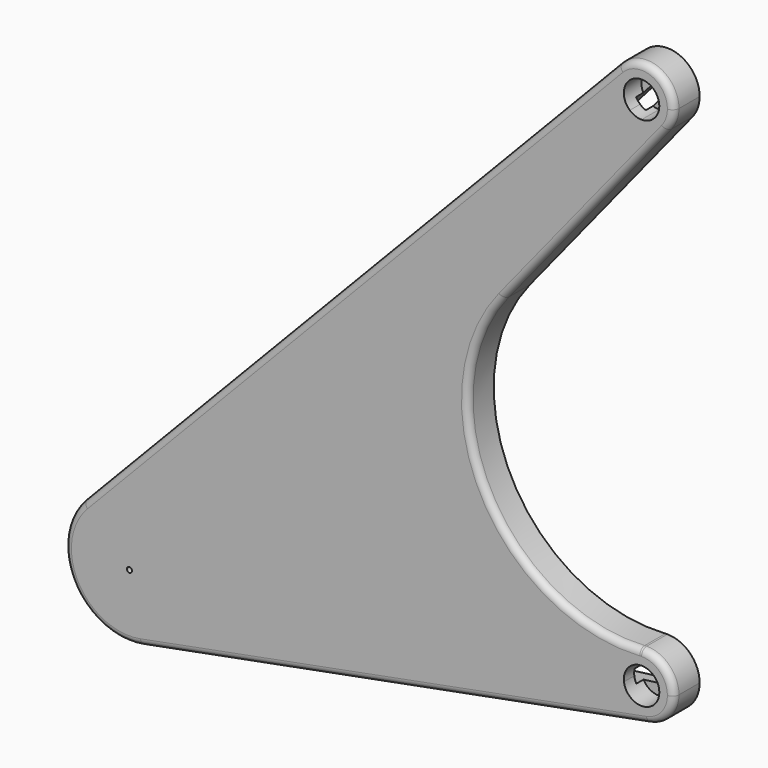
from build123d import *

# Parameters (mm, degrees)
F1_DEPTH = 25
F2_DEPTH = 8
F3_DEPTH = 25
F4_DEPTH = 15
F6_DEPTH = 15
F7_D     = 4
F8_R     = 5


with BuildPart() as f1:
    # F0 (on Front) → F1 (new body)
    with BuildSketch(Plane.XZ):
        with BuildLine():
            Line((-349.5359115523, -100.9652705431), (-336.307154997, -85.9652705431))
            ThreePointArc((-336.307154997, -85.9652705431), (-353.178144257, -76.1627254717), (-372.5163375921, -73.5637935721))
            ThreePointArc((-372.5163375921, -73.5637935721), (-390.430756518, -78.1130324452), (-405.4684846867, -88.8595998648))
            ThreePointArc((-405.4684846867, -88.8595998648), (-413.3268873379, -147.310338704), (-360.0407755432, -172.5854975141))
            ThreePointArc((-360.0407755432, -172.5854975141), (-343.7235260202, -166.3814012494), (-330.5336171349, -154.9459412214))
            ThreePointArc((-330.5336171349, -154.9459412214), (-322.250119692, -140.1645001283), (-319.3790463853, -123.4652705431))
            ThreePointArc((-319.3790463853, -123.4652705431), (-319.4771834235, -120.3341249159), (-319.7712093028, -117.2152705431))
            Line((-319.7712093028, -117.2152705431), (-339.6143441358, -119.7152705431))
            ThreePointArc((-339.6143441358, -119.7152705431), (-339.4379286082, -121.5865831668), (-339.3790463853, -123.4652705431))
            ThreePointArc((-339.3790463853, -123.4652705431), (-396.7221812183, -135.8084053761), (-349.5359115523, -100.9652705431))
        make_face()
        with BuildLine():
            ThreePointArc((-319.7712093028, -117.2152705431), (-325.1848725611, -100.0799118758), (-336.307154997, -85.9652705431))
            Line((-336.307154997, -85.9652705431), (-349.5359115523, -100.9652705431))
            ThreePointArc((-349.5359115523, -100.9652705431), (-342.8625420908, -109.4340553427), (-339.6143441358, -119.7152705431))
            Line((-339.6143441358, -119.7152705431), (-319.7712093028, -117.2152705431))
        make_face()
        with BuildLine():
            Line((-336.307154997, -85.9652705431), (-322.6025679954, -70.4257295315))
            Line((-322.6025679954, -70.4257295315), (-372.5163375921, -73.5637935721))
            ThreePointArc((-372.5163375921, -73.5637935721), (-353.178144257, -76.1627254717), (-336.307154997, -85.9652705431))
        make_face()
        with BuildLine():
            Line((-322.6025679954, -70.4257295315), (10.9477045802, 307.7847294569))
            ThreePointArc((10.9477045802, 307.7847294569), (2.5055132487, 325.4894205434), (9.4389311237, 343.837564796))
            Line((9.4389311237, 343.837564796), (-405.4684846867, -88.8595998648))
            ThreePointArc((-405.4684846867, -88.8595998648), (-390.430756518, -78.1130324452), (-372.5163375921, -73.5637935721))
            Line((-372.5163375921, -73.5637935721), (-322.6025679954, -70.4257295315))
        make_face()
        with BuildLine():
            ThreePointArc((27.4836502744, 301.5347294569), (18.6448155096, 303.1493707896), (10.9477045802, 307.7847294569))
            Line((10.9477045802, 307.7847294569), (-322.6025679954, -70.4257295315))
            Line((-322.6025679954, -70.4257295315), (-258.7862584205, -66.4136168841))
            Line((-258.7862584205, -66.4136168841), (-79.1806184856, 155.209939055))
            Line((-79.1806184856, 155.209939055), (27.4836502744, 286.8278244556))
            Line((27.4836502744, 286.8278244556), (27.4836502744, 301.5347294569))
        make_face()
        with BuildLine():
            Line((-258.7862584205, -66.4136168841), (-322.6025679954, -70.4257295315))
            Line((-322.6025679954, -70.4257295315), (-336.307154997, -85.9652705431))
            ThreePointArc((-336.307154997, -85.9652705431), (-325.1848725611, -100.0799118758), (-319.7712093028, -117.2152705431))
            Line((-319.7712093028, -117.2152705431), (-297.7031676779, -114.4349586354))
            Line((-297.7031676779, -114.4349586354), (-258.7862584205, -66.4136168841))
        make_face()
        with BuildLine():
            Line((-79.1806184856, 155.209939055), (-258.7862584205, -66.4136168841))
            Line((-258.7862584205, -66.4136168841), (25.915004671, -48.5145320576))
            ThreePointArc((25.915004671, -48.5145320576), (-93.174775765, 19.0206064889), (-79.1806184856, 155.209939055))
        make_face()
        with BuildLine():
            Line((13.8414950767, -75.1840205431), (2.6797317332, -76.5902705431))
            ThreePointArc((2.6797317332, -76.5902705431), (12.7792837339, -93.6836187606), (32.1527856955, -98.0253840286))
            ThreePointArc((32.1527856955, -98.0253840286), (46.7414848558, -89.4069080762), (52.4836502744, -73.4652705431))
            ThreePointArc((52.4836502744, -73.4652705431), (45.1613198041, -55.7876010134), (27.4836502744, -48.4652705431))
            Line((27.4836502744, -48.4652705431), (27.4836502744, -59.7152705431))
            ThreePointArc((27.4836502744, -59.7152705431), (37.2063685157, -63.7425523018), (41.2336502744, -73.4652705431))
            ThreePointArc((41.2336502744, -73.4652705431), (28.3447153219, -87.1882828576), (13.8414950767, -75.1840205431))
        make_face()
        with BuildLine():
            Line((2.6797317332, -76.5902705431), (-297.7031676779, -114.4349586354))
            Line((-297.7031676779, -114.4349586354), (-330.5336171349, -154.9459412214))
            ThreePointArc((-330.5336171349, -154.9459412214), (-343.7235260202, -166.3814012494), (-360.0407755432, -172.5854975141))
            Line((-360.0407755432, -172.5854975141), (32.1527856955, -98.0253840286))
            ThreePointArc((32.1527856955, -98.0253840286), (12.7792837339, -93.6836187606), (2.6797317332, -76.5902705431))
        make_face()
        with BuildLine():
            ThreePointArc((27.4836502744, -48.4652705431), (26.6989408177, -48.4775889566), (25.915004671, -48.5145320576))
            ThreePointArc((25.915004671, -48.5145320576), (8.223852566, -57.5260048062), (2.6797317332, -76.5902705431))
            Line((2.6797317332, -76.5902705431), (13.8414950767, -75.1840205431))
            ThreePointArc((13.8414950767, -75.1840205431), (17.1711502744, -64.3705004113), (27.4836502744, -59.7152705431))
            Line((27.4836502744, -59.7152705431), (27.4836502744, -48.4652705431))
        make_face()
        with BuildLine():
            Line((25.915004671, -48.5145320576), (-258.7862584205, -66.4136168841))
            Line((-258.7862584205, -66.4136168841), (-297.7031676779, -114.4349586354))
            Line((-297.7031676779, -114.4349586354), (2.6797317332, -76.5902705431))
            ThreePointArc((2.6797317332, -76.5902705431), (8.223852566, -57.5260048062), (25.915004671, -48.5145320576))
        make_face()
        with BuildLine():
            Line((-297.7031676779, -114.4349586354), (-319.7712093028, -117.2152705431))
            ThreePointArc((-319.7712093028, -117.2152705431), (-319.4771834235, -120.3341249159), (-319.3790463853, -123.4652705431))
            ThreePointArc((-319.3790463853, -123.4652705431), (-322.250119692, -140.1645001283), (-330.5336171349, -154.9459412214))
            Line((-330.5336171349, -154.9459412214), (-297.7031676779, -114.4349586354))
        make_face()
        with BuildLine():
            ThreePointArc((46.9063648996, 310.7943941178), (38.2421728617, 303.9680683893), (27.4836502744, 301.5347294569))
            Line((27.4836502744, 301.5347294569), (27.4836502744, 286.8278244556))
            Line((27.4836502744, 286.8278244556), (46.9063648996, 310.7943941178))
        make_face()
        with BuildLine():
            Line((10.9477045802, 307.7847294569), (18.3888801426, 316.2222294569))
            ThreePointArc((18.3888801426, 316.2222294569), (21.8263801426, 339.0669995887), (41.2336502744, 326.5347294569))
            ThreePointArc((41.2336502744, 326.5347294569), (37.2063685157, 316.8120112156), (27.4836502744, 312.7847294569))
            Line((27.4836502744, 312.7847294569), (27.4836502744, 301.5347294569))
            ThreePointArc((27.4836502744, 301.5347294569), (38.2421728617, 303.9680683893), (46.9063648996, 310.7943941178))
            ThreePointArc((46.9063648996, 310.7943941178), (51.048113621, 318.1851146643), (52.4836502744, 326.5347294569))
            ThreePointArc((52.4836502744, 326.5347294569), (36.8078666284, 349.730828038), (9.4389311237, 343.837564796))
            ThreePointArc((9.4389311237, 343.837564796), (2.5055132487, 325.4894205434), (10.9477045802, 307.7847294569))
        make_face()
        with BuildLine():
            ThreePointArc((27.4836502744, 312.7847294569), (22.6222911537, 313.6727821899), (18.3888801426, 316.2222294569))
            Line((18.3888801426, 316.2222294569), (10.9477045802, 307.7847294569))
            ThreePointArc((10.9477045802, 307.7847294569), (18.6448155096, 303.1493707896), (27.4836502744, 301.5347294569))
            Line((27.4836502744, 301.5347294569), (27.4836502744, 312.7847294569))
        make_face()
    extrude(amount=F1_DEPTH)

    # F0 (on Front) → F2 (join)
    with BuildSketch(Plane.XZ):
        with BuildLine():
            ThreePointArc((27.4836502744, -59.7152705431), (17.1711502744, -64.3705004113), (13.8414950767, -75.1840205431))
            Line((13.8414950767, -75.1840205431), (27.4836502744, -73.4652705431))
            Line((27.4836502744, -73.4652705431), (27.4836502744, -59.7152705431))
        make_face()
        with BuildLine():
            Line((27.4836502744, -73.4652705431), (13.8414950767, -75.1840205431))
            ThreePointArc((13.8414950767, -75.1840205431), (28.3447153219, -87.1882828576), (41.2336502744, -73.4652705431))
            ThreePointArc((41.2336502744, -73.4652705431), (37.2063685157, -63.7425523018), (27.4836502744, -59.7152705431))
            Line((27.4836502744, -59.7152705431), (27.4836502744, -73.4652705431))
        make_face()
        with BuildLine():
            Line((27.4836502744, 312.7847294569), (27.4836502744, 326.5347294569))
            Line((27.4836502744, 326.5347294569), (18.3888801426, 316.2222294569))
            ThreePointArc((18.3888801426, 316.2222294569), (22.6222911537, 313.6727821899), (27.4836502744, 312.7847294569))
        make_face()
        with BuildLine():
            Line((18.3888801426, 316.2222294569), (27.4836502744, 326.5347294569))
            Line((27.4836502744, 326.5347294569), (27.4836502744, 312.7847294569))
            ThreePointArc((27.4836502744, 312.7847294569), (37.2063685157, 316.8120112156), (41.2336502744, 326.5347294569))
            ThreePointArc((41.2336502744, 326.5347294569), (21.8263801426, 339.0669995887), (18.3888801426, 316.2222294569))
        make_face()
    extrude(amount=F2_DEPTH)

    # F0 (on Front) → F3 (join)
    with BuildSketch(Plane.XZ):
        with BuildLine():
            Line((-369.3790463853, -123.4652705431), (-349.5359115523, -100.9652705431))
            ThreePointArc((-349.5359115523, -100.9652705431), (-396.7221812183, -135.8084053761), (-339.3790463853, -123.4652705431))
            ThreePointArc((-339.3790463853, -123.4652705431), (-339.4379286082, -121.5865831668), (-339.6143441358, -119.7152705431))
            Line((-339.6143441358, -119.7152705431), (-369.3790463853, -123.4652705431))
        make_face()
        with BuildLine():
            ThreePointArc((-339.6143441358, -119.7152705431), (-342.8625420908, -109.4340553427), (-349.5359115523, -100.9652705431))
            Line((-349.5359115523, -100.9652705431), (-369.3790463853, -123.4652705431))
            Line((-369.3790463853, -123.4652705431), (-339.6143441358, -119.7152705431))
        make_face()
    extrude(amount=F3_DEPTH)

    # F0 (on Front) → F4 (cut)
    with BuildSketch(Plane.XZ):
        with BuildLine():
            ThreePointArc((-339.6143441358, -119.7152705431), (-342.8625420908, -109.4340553427), (-349.5359115523, -100.9652705431))
            Line((-349.5359115523, -100.9652705431), (-369.3790463853, -123.4652705431))
            Line((-369.3790463853, -123.4652705431), (-339.6143441358, -119.7152705431))
        make_face()
        with BuildLine():
            Line((-369.3790463853, -123.4652705431), (-349.5359115523, -100.9652705431))
            ThreePointArc((-349.5359115523, -100.9652705431), (-396.7221812183, -135.8084053761), (-339.3790463853, -123.4652705431))
            ThreePointArc((-339.3790463853, -123.4652705431), (-339.4379286082, -121.5865831668), (-339.6143441358, -119.7152705431))
            Line((-339.6143441358, -119.7152705431), (-369.3790463853, -123.4652705431))
        make_face()
    extrude(amount=F4_DEPTH, mode=Mode.SUBTRACT)

    # F5 (on Front) → F6 (cut)
    with BuildSketch(Plane.XZ):
        Polygon((-369.3790463853, -123.4652705431), (-368.7540463853, -128.4260542513), (28.1086502744, -78.4260542513), (26.8586502744, -68.5044868349), (-356.8790463853, -116.8508922654), (-365.6290463853, -126.7724596819), align=None)
        Polygon((-373.1290463853, -120.1580814043), (-369.3790463853, -123.4652705431), (-370.0040463853, -118.5044868349), (-356.8790463853, -116.8508922654), (31.2336502744, 323.2275403181), (23.7336502744, 329.8419185957), align=None)
    extrude(amount=F6_DEPTH, mode=Mode.SUBTRACT)

    # F7 (through all)
    with Locations(Plane(origin=(0, 0, 0), x_dir=(1, 0, 0), z_dir=(0, 1, 0))):
        with Locations((-369.3790463853, 123.4652705431)):
            Hole(F7_D / 2)

    # F8
    f8_edges = [f1.edges().sort_by_distance(p)[0] for p in [
        (-198.014777, -25, 127.488982),
    ]]
    fillet(f8_edges, radius=F8_R)


solid = f1.part
